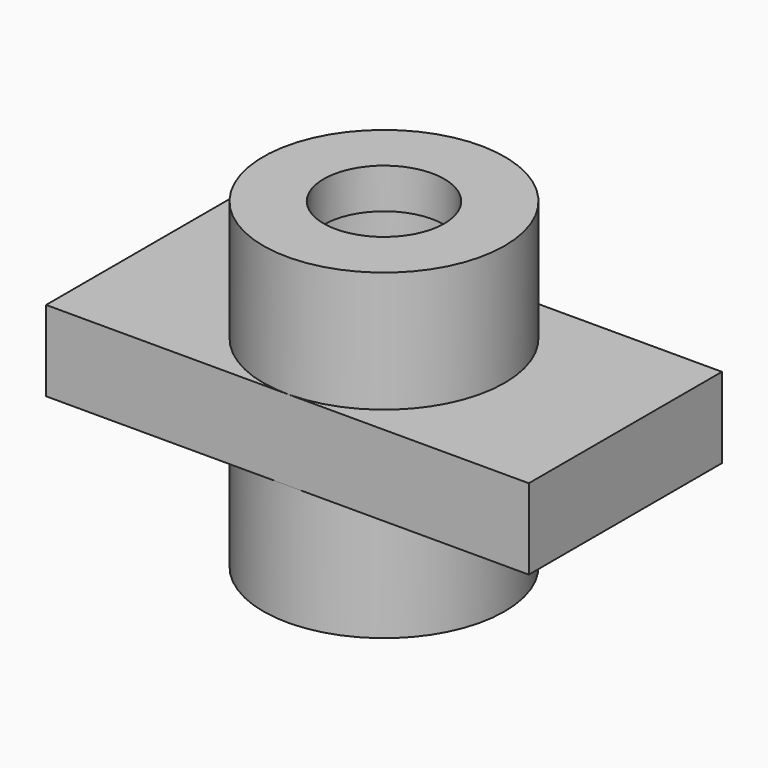
from build123d import *

# Parameters (mm, degrees)
F0_W     = 9.525
F0_H     = 19.05
F0_H_2   = 12.7
F0_W_2   = 38.1
F0_W_3   = 19.05
F2_DEPTH = 19.05
F3_R     = 9.525
F4_DEPTH = 31.751


with BuildPart() as f1:
    # F0 (on Front) → F1 (revolve)
    with BuildSketch(Plane.XZ):
        Polygon((12.7, 38.1), (9.525, 38.1), (9.525, 31.75), (19.05, 31.75), (19.05, 50.8), (9.525, 50.8), (9.525, 44.45), (12.7, 44.45), align=None)
        with Locations((14.2875, 9.525)):
            Rectangle(F0_W, F0_H)
        with Locations((14.2875, 25.4)):
            Rectangle(F0_W, F0_H_2)
    revolve(axis=Axis((0, 0, 25.4), (0, 0, 1)))


with BuildPart() as f2:
    # F0 (on Front) → F2 (new body, symmetric)
    with BuildSketch(Plane.XZ):
        with Locations((-19.05, 25.4)):
            Rectangle(F0_W_2, F0_H_2)
        with Locations((28.575, 25.4)):
            Rectangle(F0_W_3, F0_H_2)
        with Locations((4.7625, 25.4)):
            Rectangle(F0_W, F0_H_2)
        with Locations((14.2875, 25.4)):
            Rectangle(F0_W, F0_H_2)
    extrude(amount=F2_DEPTH, both=True)

    # F3 (on face) → F4 (cut, through all)
    with BuildSketch(Plane.XY.offset(31.75)):
        Circle(F3_R)
    extrude(amount=-F4_DEPTH, mode=Mode.SUBTRACT)


solid = Compound([f1.part, f2.part])
